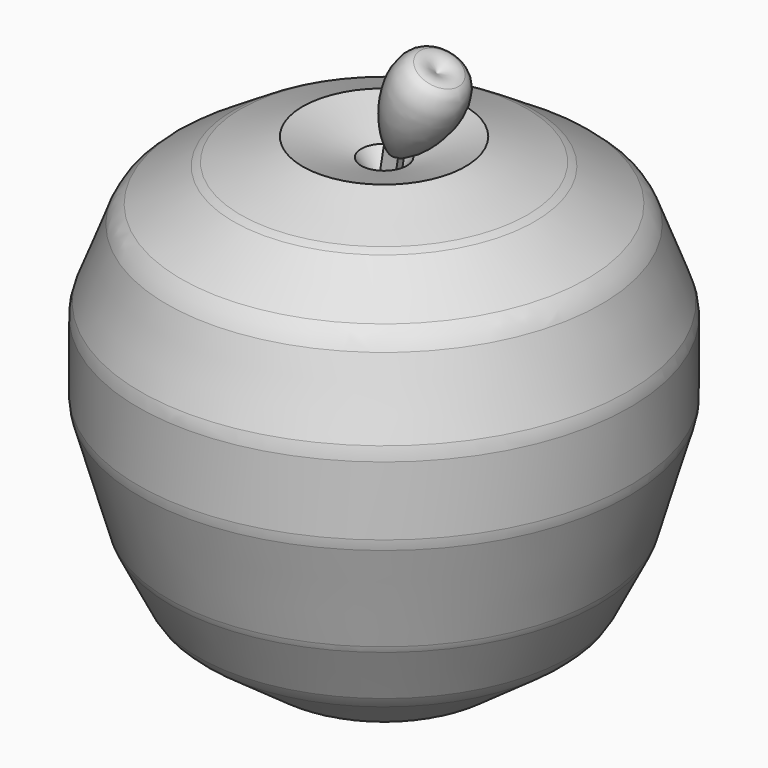
from build123d import *

# Parameters (mm, degrees)
F2_R      = 4.8247887854
F6_R      = 5.08
F10_DEPTH = 1.1176


with BuildPart() as f1:
    # F0 (on Front) → F1 (revolve)
    with BuildSketch(Plane.XZ):
        Polygon((0, -30.7238399982), (0, 22.2747847438), (-8.32104031, 30.4678082466), (-21.6347035021, 20.2265270054), (-31.8759828806, 10.7533438131), (-31.8759828806, -6.4007998444), (-20.8666082472, -26.8833599985), (-6.2727844343, -35.5884470046), align=None)
    revolve(axis=Axis((0, 0, -4.2245276272), (0, 0, -1)))

    # F2
    f2_edges = [f1.edges().sort_by_distance(p)[0] for p in [
        (31.875983, 0, -6.4008),
        (20.866608, 0, -26.88336),
        (-26.371296, 0, -16.64208),
        (21.634704, 0, 20.226527),
        (31.875983, 0, 10.753344),
        (-26.755343, 0, 15.489935),
        (8.32104, 0, 30.467808),
        (-14.977872, 0, 25.347168),
        (6.272784, 0, -35.588447),
        (-13.569696, 0, -31.235904),
    ]]
    fillet(f2_edges, radius=F2_R)


with BuildPart() as f5:
    # F4 (on Front) → F5 (revolve)
    with BuildSketch(Plane.XZ):
        Polygon((0, -30.9798717499), (0, 22.5308164954), (-3.2004006207, 26.8833599985), (-11.3934241235, 29.4436812401), (-20.6105764955, 26.1152647436), (-29.8277288675, 20.2265270054), (-34.4363041222, 8.1930235028), (-34.4363041222, -3.0723842792), (-30.0837606192, -18.1782729924), (-25.4751835018, -27.3954253644), (-14.7218396887, -35.0763835013), (-8.065007627, -37.8927364945), align=None)
    revolve(axis=Axis((0, 0, -4.2245276272), (0, 0, -1)))

    # F6
    f6_edges = [f5.edges().sort_by_distance(p)[0] for p in [
        (20.610576, 0, 26.115265),
        (29.827729, 0, 20.226527),
        (-25.219153, 0, 23.170896),
        (34.436304, 0, 8.193024),
        (-32.132016, 0, 14.209775),
        (34.436304, 0, -3.072384),
        (-34.436304, 0, 2.56032),
        (30.083761, 0, -18.178273),
        (-32.260032, 0, -10.625329),
        (25.475184, 0, -27.395425),
        (-27.779472, 0, -22.786849),
        (14.72184, 0, -35.076384),
        (-20.098512, 0, -31.235904),
        (8.065008, 0, -37.892736),
        (-11.393424, 0, -36.48456),
    ]]
    fillet(f6_edges, radius=F6_R)


with BuildPart() as f8:
    # F7 (on Front) → F8 (revolve)
    with BuildSketch(Plane.XZ):
        with BuildLine():
            Line((4.2871795595, 33.4377028048), (1.1912591128, 27.2559621202))
            add(Edge.make_bspline(
                [(1.1912591128, 27.2559621202), (18.0131662302, 30.6038983688), (10.4266675189, 38.9910824597)],
                knots=[3.8204950948, 3.8204950948, 3.8204950948, 6.2831853072, 6.2831853072, 6.2831853072], degree=2, weights=[1, 0.3329696776, 1]))
            add(Edge.make_bspline(
                [(10.4266675189, 38.9910824597), (9.4806810758, 40.0369090983), (7.3831000062, 39.6194434894)],
                knots=[0, 0, 0, 0.6789024412, 0.6789024412, 0.6789024412], degree=2, weights=[1, 0.9429375344, 1]))
            Line((7.3831000062, 39.6194434894), (4.2871795595, 33.4377028048))
        make_face()
    revolve(axis=Axis((3.6915500031, 0, 32.2483868889), (0.4477978629, 0, 0.8941348187)))


with BuildPart() as f10:
    # F9 (on Front) → F10 (new body)
    with BuildSketch(Plane.XZ):
        Polygon((1.2537260773, 31.4786843956), (0, 23.6362311989), (2.0260354603, 23.0394498473), (3.3222998869, 31.1479938753), align=None)
    extrude(amount=F10_DEPTH)


solid = Compound([f5.part, f8.part, f10.part])
